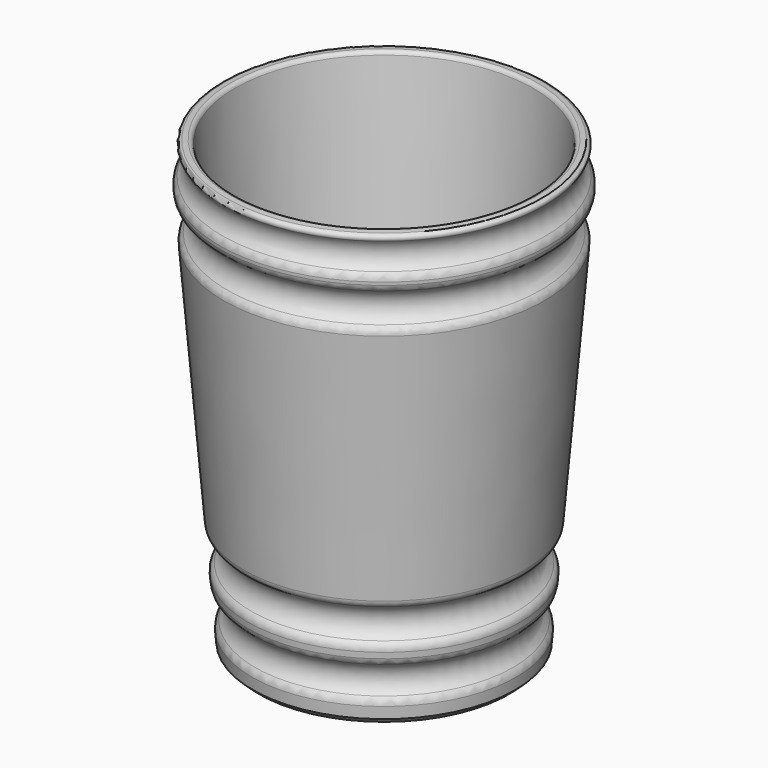
from build123d import *

# Parameters (mm, degrees)
F2_R    = 1
F3_R    = 2.5
F4_SIZE = 1.5


with BuildPart() as f1:
    # F0 (on Front) → F1 (revolve)
    with BuildSketch(Plane.XZ):
        with BuildLine():
            Line((-35.000053, -80.840964), (-5.3e-05, -80.840964))
            Line((-5.3e-05, -80.840964), (-5.3e-05, -75.840964))
            Line((-5.3e-05, -75.840964), (-30.400305, -75.841603))
            Line((-30.400305, -75.841603), (-40.016242, 39.257719))
            Line((-40.016242, 39.257719), (-42.351001, 39.062662))
            ThreePointArc((-42.351001, 39.062662), (-43.162917, 38.462545), (-42.990076, 37.467821))
            ThreePointArc((-42.990076, 37.467821), (-41.797752, 33.342598), (-44.244681, 29.813909))
            Line((-44.244681, 29.813909), (-43.932435, 26.076434))
            ThreePointArc((-43.932435, 26.076434), (-40.144403, 21.637513), (-43.143367, 16.631575))
            Line((-43.143367, 16.631575), (-37.425172, -51.813168))
            ThreePointArc((-37.425172, -51.813168), (-33.54919, -56.272887), (-36.631434, -61.313929))
            Line((-36.631434, -61.313929), (-36.253834, -65.833655))
            ThreePointArc((-36.253834, -65.833655), (-33.025571, -70.099492), (-35.501246, -74.841863))
            Line((-35.501246, -74.841863), (-35.000053, -80.840964))
        make_face()
    revolve(axis=Axis((-5.3e-05, 0, -78.340964), (0, 0, -1)))

    # F2
    f2_edges = [f1.edges().sort_by_distance(p)[0] for p in [
        (40.016135, 0, 39.257719),
    ]]
    fillet(f2_edges, radius=F2_R)

    # F3
    f3_edges = [f1.edges().sort_by_distance(p)[0] for p in [
        (44.244574, 0, 29.813909),
        (43.932328, 0, 26.076434),
        (43.14326, 0, 16.631575),
        (37.425065, 0, -51.813168),
        (36.631327, 0, -61.313929),
        (36.253728, 0, -65.833655),
        (35.50114, 0, -74.841863),
    ]]
    fillet(f3_edges, radius=F3_R)

    # F4
    f4_edges = [f1.edges().sort_by_distance(p)[0] for p in [
        (34.999947, 0, -80.840964),
    ]]
    chamfer(f4_edges, length=F4_SIZE)


solid = f1.part
